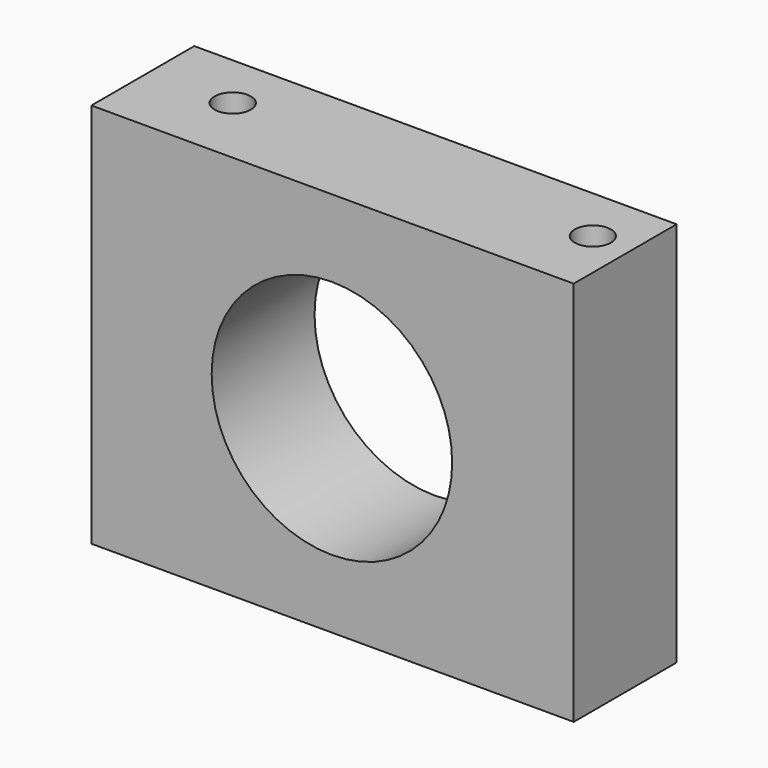
from build123d import *

# Parameters (mm, degrees)
F0_W     = 95.25
F0_H     = 76.2
F1_DEPTH = 25.4
F2_R     = 23.749
F3_DEPTH = 25.401
F4_DEPTH = 25.401
F5_R     = 3.5687
F6_DEPTH = 76.201


with BuildPart() as f1:
    # F0 (on Front) → F1 (new body)
    with BuildSketch(Plane.XZ):
        with Locations((-22.164535, 8.572499)):
            Rectangle(F0_W, F0_H)
    extrude(amount=F1_DEPTH)

    # F2 (on face) → F3 (cut, through all)
    with BuildSketch(Plane.XZ.offset(25.4)):
        with Locations((-22.291535, 7.71525)):
            Circle(F2_R)
    extrude(amount=-F3_DEPTH, mode=Mode.SUBTRACT)

    # F2 (on face) → F4 (cut, through all)
    with BuildSketch(Plane.XZ.offset(25.4)):
        with Locations((-22.291535, 7.71525)):
            Circle(F2_R)
    extrude(amount=-F4_DEPTH, mode=Mode.SUBTRACT)

    # F5 (on face) → F6 (cut, through all)
    with BuildSketch(Plane.XY.offset(46.672499)):
        with Locations((17.834467, -11.14425)):
            Circle(F5_R)
        with Locations((-53.285533, -11.14425)):
            Circle(F5_R)
    extrude(amount=-F6_DEPTH, mode=Mode.SUBTRACT)


solid = f1.part
